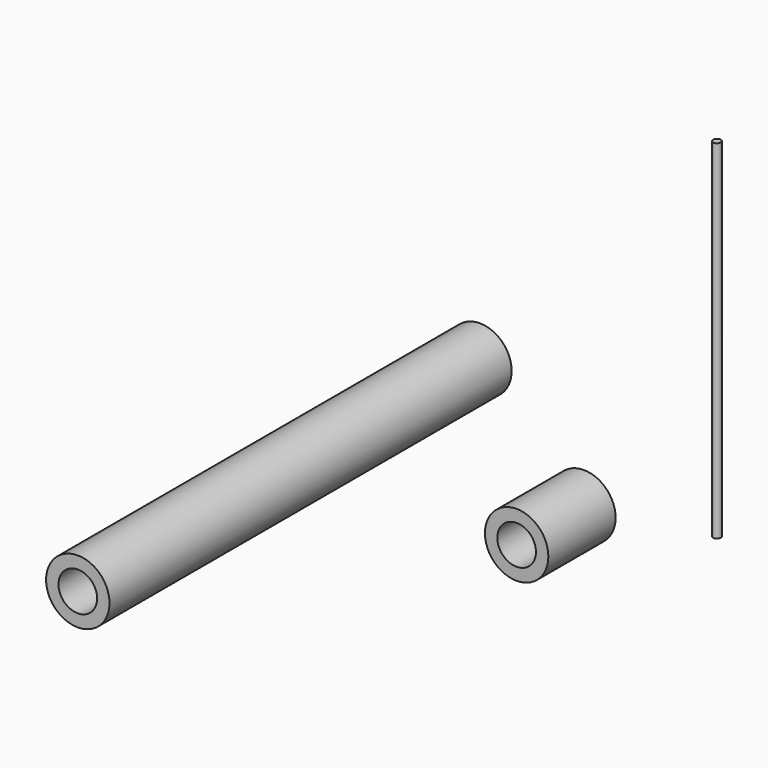
from build123d import *

# Parameters (mm, degrees)
F0_W     = 4.064
F0_H     = 27.6225
F2_W     = 4.064
F2_H     = 165.1
F4_R     = 1.27
F5_DEPTH = 114.3


with BuildPart() as f1:
    # F0 (on Top) → F1 (revolve)
    with BuildSketch(Plane.XY):
        with Locations((8.382, 13.81125)):
            Rectangle(F0_W, F0_H)
    revolve(axis=Axis((0, 13.81125, 0), (0, -1, 0)))


with BuildPart() as f3:
    # F2 (on Top) → F3 (revolve)
    with BuildSketch(Plane.XY):
        with Locations((-80.1135887269, -7.9502528533)):
            Rectangle(F2_W, F2_H)
    revolve(axis=Axis((-71.7315887269, -7.9502528533, 0), (0, -1, 0)))


with BuildPart() as f5:
    # F4 (on Top) → F5 (new body)
    with BuildSketch(Plane.XY):
        with Locations((37.1779985726, 35.7760712504)):
            Circle(F4_R)
    extrude(amount=F5_DEPTH)


solid = Compound([f1.part, f3.part, f5.part])
